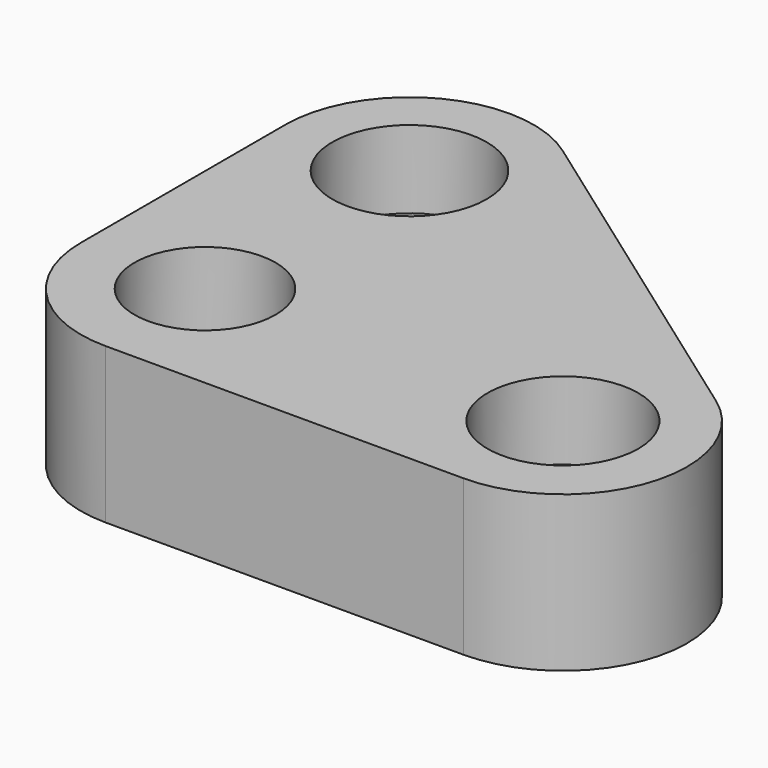
from build123d import *

# Parameters (mm, degrees)
F0_R     = 9.085858
F0_R_2   = 9.713119
F0_R_3   = 9.943087
F1_DEPTH = 20
F0_R_4   = 2.956613
F0_R_5   = 3.792216
F0_R_6   = 3.328406
F2_DEPTH = 10


with BuildPart() as f1:
    # F0 (on Top) → F1 (new body)
    with BuildSketch(Plane.XY):
        with BuildLine():
            ThreePointArc((0, 16), (4.686292, 4.686292), (16, 0))
            Line((16, 0), (62.072559, 0))
            ThreePointArc((62.072559, 0), (77.309287, 11.117161), (71.37237, 29.019736))
            Line((71.37237, 29.019736), (25.299811, 61.928706))
            ThreePointArc((25.299811, 61.928706), (8.678695, 63.135653), (0, 48.908971))
            Line((0, 48.908971), (0, 16))
        make_face()
        with Locations((16, 16)):
            Circle(F0_R, mode=Mode.SUBTRACT)
        with Locations((62.072559, 16)):
            Circle(F0_R_2, mode=Mode.SUBTRACT)
        with Locations((16, 48.908971)):
            Circle(F0_R_3, mode=Mode.SUBTRACT)
    extrude(amount=F1_DEPTH)

    # F0 (on Top) → F2 (join)
    with BuildSketch(Plane.XY):
        with Locations((16, 16)):
            Circle(F0_R)
        with Locations((16, 16)):
            Circle(F0_R_4, mode=Mode.SUBTRACT)
        with Locations((16, 48.908971)):
            Circle(F0_R_3)
        with Locations((16, 48.908971)):
            Circle(F0_R_5, mode=Mode.SUBTRACT)
        with Locations((62.072559, 16)):
            Circle(F0_R_2)
        with Locations((62.072559, 16)):
            Circle(F0_R_6, mode=Mode.SUBTRACT)
    extrude(amount=F2_DEPTH)


solid = f1.part
